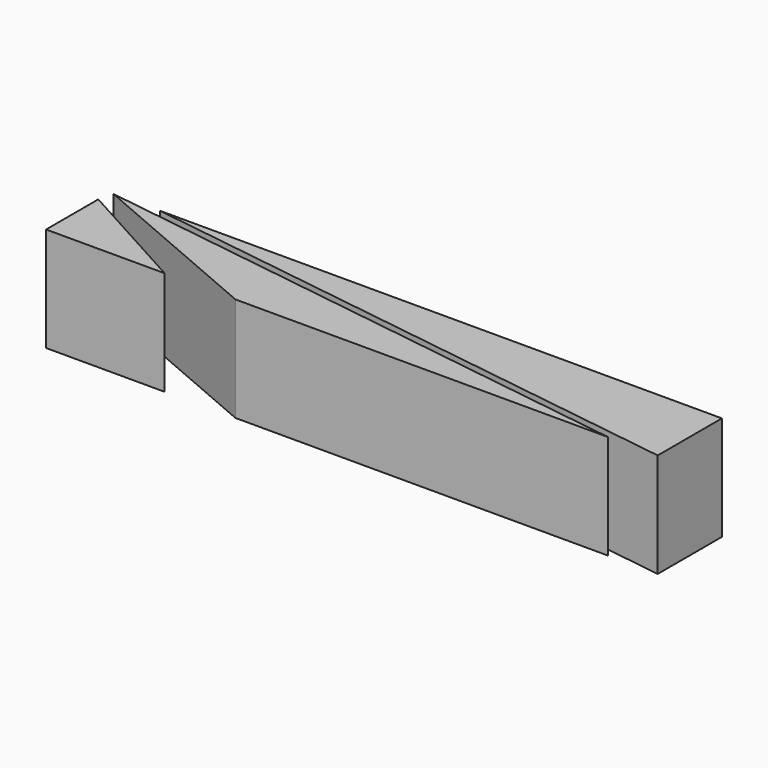
from build123d import *

# Parameters (mm, degrees)
F1_DEPTH = 52
F3_DEPTH = 52.001


with BuildPart() as f1:
    # F0 (on Top) → F1 (new body)
    with BuildSketch(Plane.XY):
        Polygon((-152.374369, -20), (127.625631, -20), (-152.374369, 20), align=None)
        Polygon((-127.625631, 20), (152.374369, -20), (152.374369, 20), align=None)
    extrude(amount=F1_DEPTH)

    # F2 (on face) → F3 (cut, through all)
    with BuildSketch(Plane.XY.offset(52)):
        Polygon((-93.287349, -20), (-58.01624, -20), (-218.365476, 48.876192), align=None)
    extrude(amount=-F3_DEPTH, mode=Mode.SUBTRACT)


solid = f1.part
